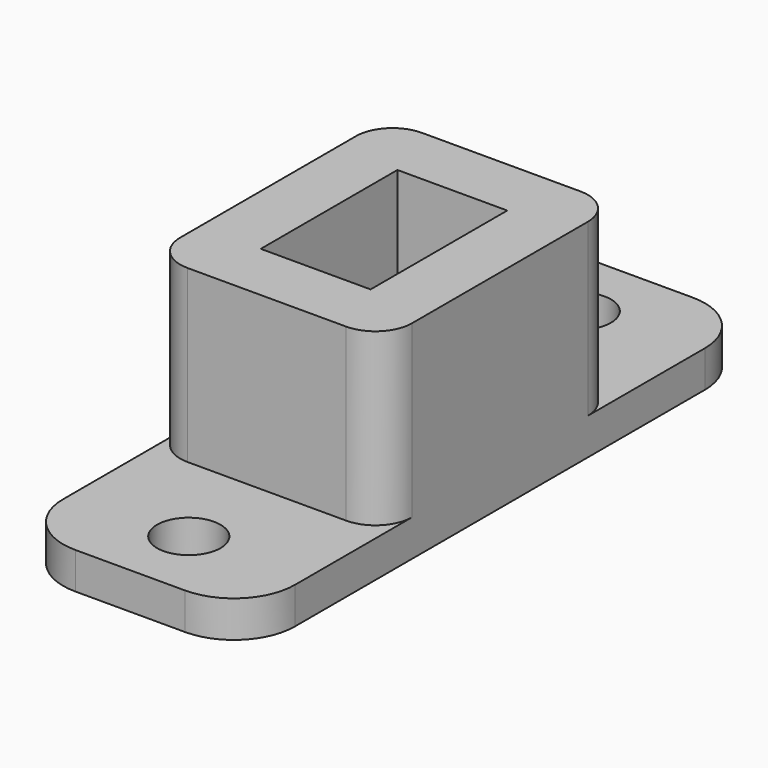
from build123d import *

# Parameters (mm, degrees)
SKETCH_W      = 19
SKETCH_H      = 52
SKETCH_R      = 2.6
SKETCH_W_2    = 9
SKETCH_H_2    = 14
PAD_DEPTH     = 3
SKETCH001_W   = 19
SKETCH001_H   = 24
SKETCH001_W_2 = 9
SKETCH001_H_2 = 14
PAD001_DEPTH  = 17
FILLET_R      = 5
FILLET001_R   = 3
FILLET002_R   = 3
FILLET003_R   = 3
SKETCH002_W   = 5
SKETCH002_H   = 3
POCKET_DEPTH  = 5


with BuildPart() as part:
    # Sketch → Pad (new body)
    with BuildSketch(Plane.XY):
        with Locations((4.5, 7)):
            Rectangle(SKETCH_W, SKETCH_H)
        with Locations((4.5, -13)):
            Circle(SKETCH_R, mode=Mode.SUBTRACT)
        with Locations((4.5, 27)):
            Circle(SKETCH_R, mode=Mode.SUBTRACT)
        with Locations((4.5, 7)):
            Rectangle(SKETCH_W_2, SKETCH_H_2, mode=Mode.SUBTRACT)
    extrude(amount=PAD_DEPTH)

    # Sketch001 → Pad001 (join)
    with BuildSketch(Plane.XY):
        with Locations((4.5, 7)):
            Rectangle(SKETCH001_W, SKETCH001_H)
        with Locations((4.5, 7)):
            Rectangle(SKETCH001_W_2, SKETCH001_H_2, mode=Mode.SUBTRACT)
    extrude(amount=PAD001_DEPTH)

    # Fillet
    fillet_edges = [part.edges().sort_by_distance(p)[0] for p in [
        (14, -19, 1.5),
        (-5, -19, 1.5),
        (14, 33, 1.5),
        (-5, 33, 1.5),
    ]]
    fillet(fillet_edges, radius=FILLET_R)

    # Fillet001
    fillet001_edges = [part.edges().sort_by_distance(p)[0] for p in [
        (14, -5, 10),
    ]]
    fillet(fillet001_edges, radius=FILLET001_R)

    # Fillet002
    fillet002_edges = [part.edges().sort_by_distance(p)[0] for p in [
        (-5, -5, 10),
        (-5, 19, 10),
    ]]
    fillet(fillet002_edges, radius=FILLET002_R)

    # Fillet003
    fillet003_edges = [part.edges().sort_by_distance(p)[0] for p in [
        (14, 19, 10),
    ]]
    fillet(fillet003_edges, radius=FILLET003_R)

    # Sketch002 (on Face16 of Fillet003) → Pocket (cut)
    with BuildSketch(Plane(origin=(-5, 0, 0), x_dir=(0, -1, 0), z_dir=(-1, 0, 0))):
        with Locations((-2.5, 1.5)):
            Rectangle(SKETCH002_W, SKETCH002_H)
    extrude(amount=-POCKET_DEPTH, mode=Mode.SUBTRACT)


solid = part.part
